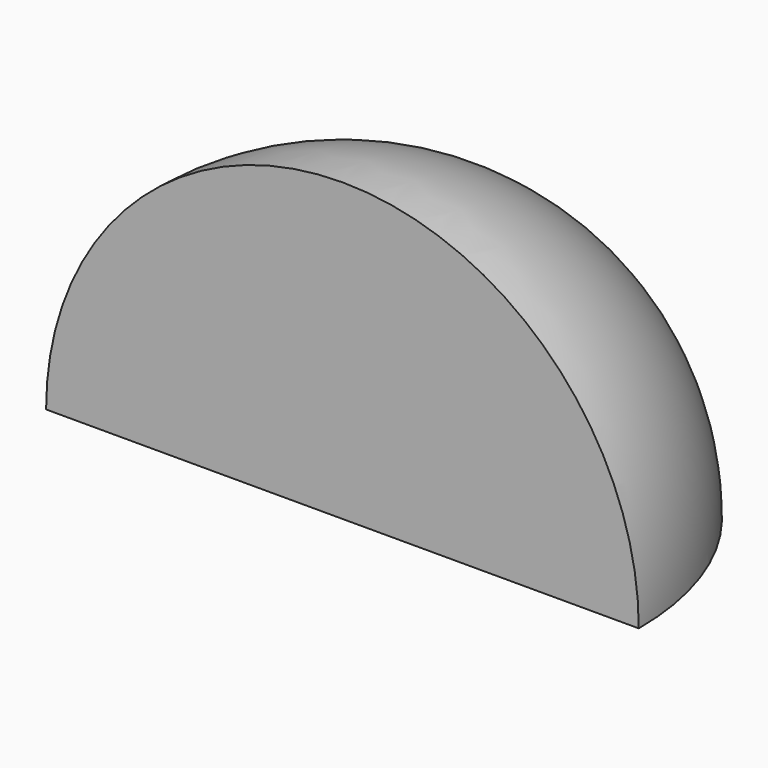
from build123d import *

# Parameters (mm, degrees)
F1_ANGLE = 90


with BuildPart() as f1:
    # F0 (on Top) → F1 (revolve)
    with BuildSketch(Plane.XY):
        with BuildLine():
            ThreePointArc((-37.273817, -38.138857), (-41.523817, -33.888857), (-45.773817, -38.138857))
            Line((-45.773817, -38.138857), (-37.273817, -38.138857))
        make_face()
    revolve(axis=Axis((-41.523817, -38.138857, 0), (1, 0, 0)), revolution_arc=F1_ANGLE)


solid = f1.part
